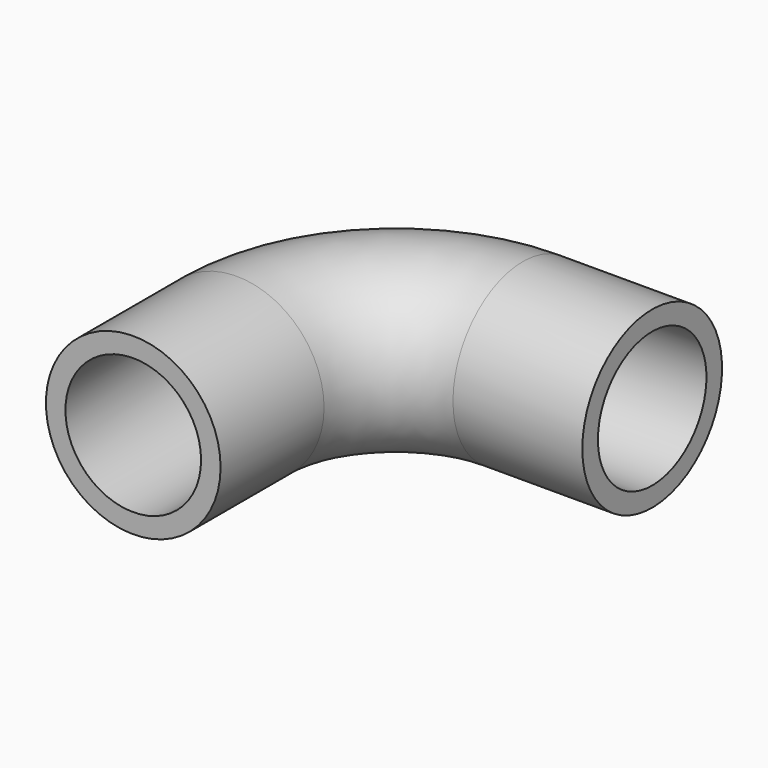
from build123d import *

# Parameters (mm, degrees)
F1_R   = 13.7541
F1_R_2 = 10.6807


with BuildPart() as f3:
    # F3: sweep along a path in F2
    with BuildLine(Plane.XY) as f3_path:
        Line((45.4025, 13.7541), (25.0317, 13.7541))
        ThreePointArc((25.0317, 13.7541), (7.3316151854, 6.4224848146), (0, -11.2776))
        Line((0, -11.2776), (0, -31.6484))
    # F1 (on offset) → F3 (sweep)
    with BuildSketch(Plane.XZ.offset(31.6484)):
        Circle(F1_R)
        Circle(F1_R_2, mode=Mode.SUBTRACT)
    sweep(path=f3_path.line)


solid = f3.part
